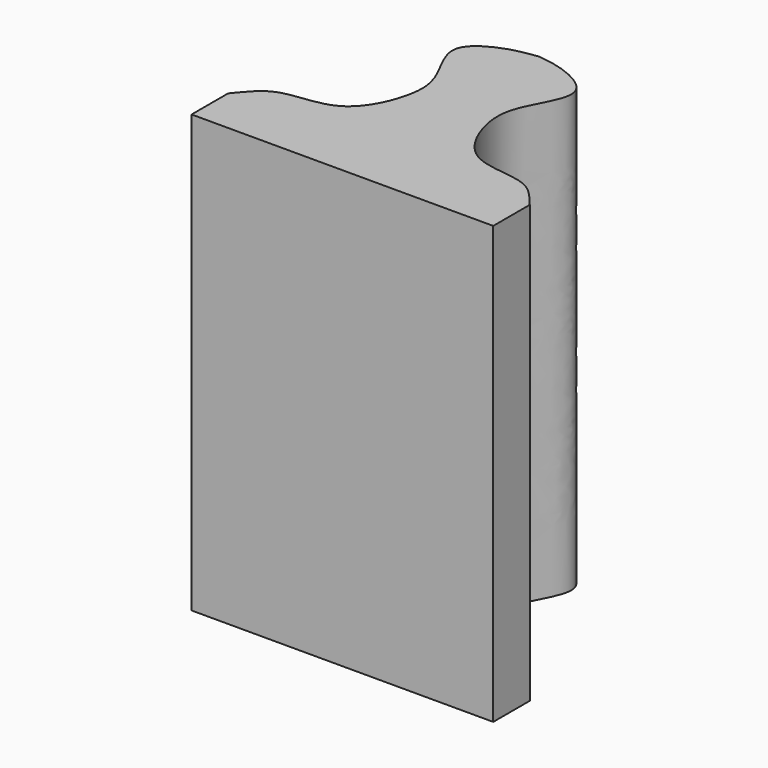
from build123d import *

# Parameters (mm, degrees)
F1_DEPTH = 20


with BuildPart() as f1:
    # F0 (on Top) → F1 (new body)
    with BuildSketch(Plane.XY):
        with BuildLine():
            add(Edge.make_bspline(
                [(0, 9.1770394081), (0.4924283487, 9.1133954162), (1.3925154229, 8.976730575), (3.2987794271, 7.893214347), (1.7878215742, 5.7244761995), (1.5926609774, 4.0528109112), (2.8039640149, 1.21758996), (5.767748114, 1.5077992372), (6.4875198978, 0.5067326854), (6.9080890849, 0)],
                knots=[0, 0, 0, 0, 0.1235515279, 0.2543428284, 0.4030926569, 0.5383262258, 0.7029568389, 0.8647672066, 1, 1, 1, 1], degree=3))
            add(Edge.make_bspline(
                [(0, 9.1770394081), (-0.4924283487, 9.1133954162), (-1.3925154229, 8.976730575), (-3.2987794271, 7.893214347), (-1.7878215742, 5.7244761995), (-1.5926609774, 4.0528109112), (-2.8039640149, 1.21758996), (-5.767748114, 1.5077992372), (-6.4875198978, 0.5067326854), (-6.9080890849, 0)],
                knots=[0, 0, 0, 0, 0.1235515279, 0.2543428284, 0.4030926569, 0.5383262258, 0.7029568389, 0.8647672066, 1, 1, 1, 1], degree=3))
            Line((-6.9080890849, 0), (-6.9080890849, -2.0907530375))
            Line((-6.9080890849, -2.0907530375), (0, -2.0907530375))
            Line((0, -2.0907530375), (6.9080890849, -2.0907530375))
            Line((6.9080890849, -2.0907530375), (6.9080890849, 0))
        make_face()
    extrude(amount=F1_DEPTH)


solid = f1.part
